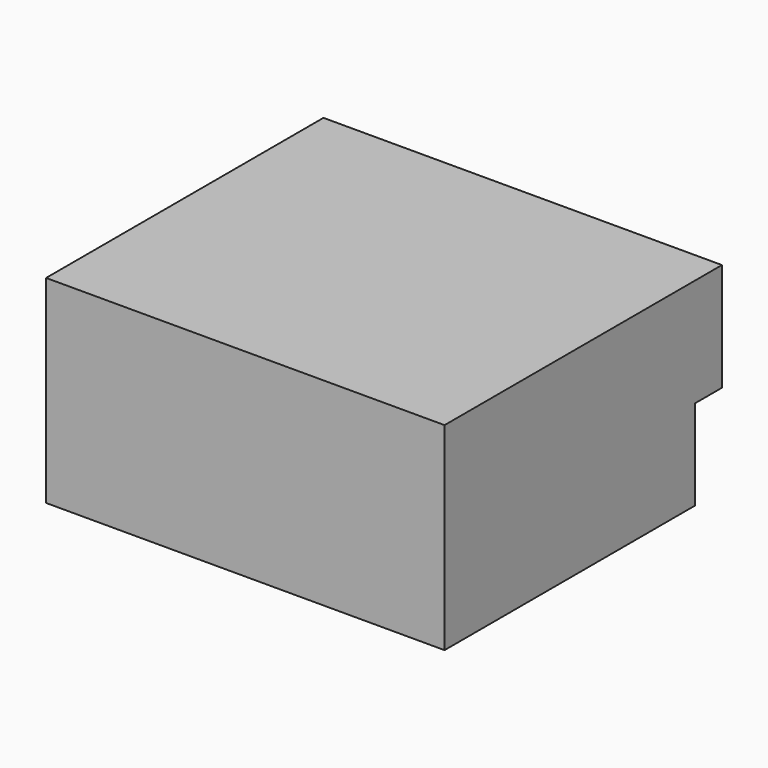
from build123d import *

# Parameters (mm, degrees)
F0_W     = 177
F0_H     = 154
F1_DEPTH = 88
F2_W     = 55
F2_H     = 40
F2_R     = 5
F3_DEPTH = 15


with BuildPart() as f1:
    # F0 (on Top) → F1 (new body)
    with BuildSketch(Plane.XY):
        with Locations((88.5, 77)):
            Rectangle(F0_W, F0_H)
    extrude(amount=F1_DEPTH)

    # F2 (on face) → F3 (cut)
    with BuildSketch(Plane(origin=(0, 154, 0), x_dir=(-1, 0, 0), z_dir=(0, 1, 0))):
        with Locations((-149.5, 20)):
            Rectangle(F2_W, F2_H)
        with Locations((-149.5, 20)):
            Circle(F2_R, mode=Mode.SUBTRACT)
        with Locations((-27.5, 20)):
            Rectangle(F2_W, F2_H)
        with Locations((-27.5, 20)):
            Circle(F2_R, mode=Mode.SUBTRACT)
    extrude(amount=-F3_DEPTH, mode=Mode.SUBTRACT)


solid = f1.part
